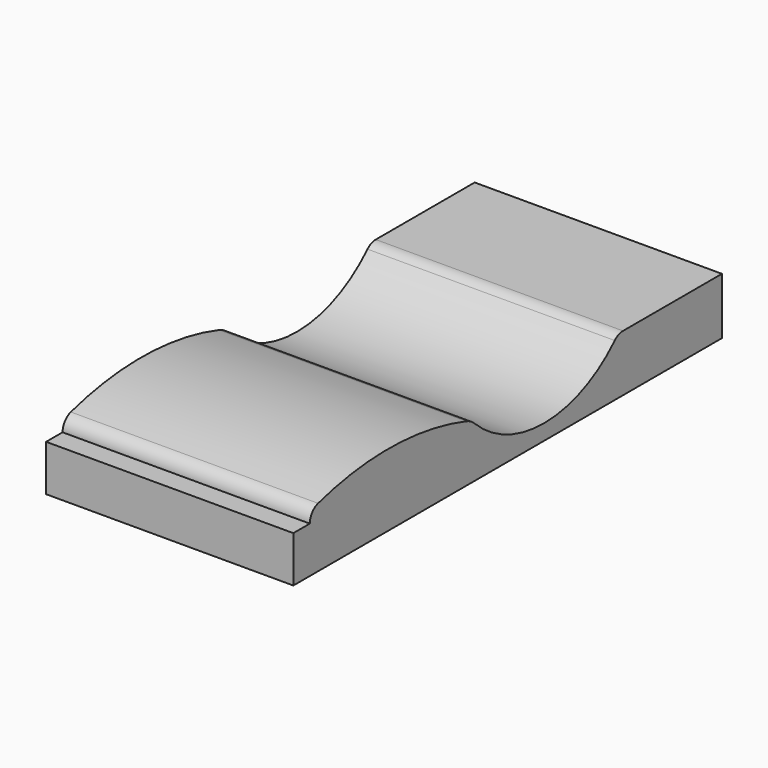
from build123d import *

# Parameters (mm, degrees)
F1_DEPTH = 304.8


with BuildPart() as f1:
    # F0 (on Right) → F1 (new body)
    with BuildSketch(Plane.YZ):
        with BuildLine():
            Line((0, 0), (25.4, 0))
            Line((25.4, 0), (635, 0))
            Line((635, 0), (660.4, 0))
            Line((660.4, 0), (660.4, 69.85))
            Line((660.4, 69.85), (635, 69.85))
            Line((635, 69.85), (508, 69.85))
            ThreePointArc((508, 69.85), (501.120084, 68.473081), (495.3, 64.554436))
            ThreePointArc((495.3, 64.554436), (387.828804, 19.05896), (279.4, 62.222496))
            ThreePointArc((279.4, 62.222496), (273.485985, 66.762175), (266.7, 69.85))
            ThreePointArc((266.7, 69.85), (152.689214, 88.843713), (38.1, 73.726423))
            ThreePointArc((38.1, 73.726423), (28.93043, 67.423949), (25.4, 56.872255))
            Line((25.4, 56.872255), (0, 56.872255))
            Line((0, 56.872255), (0, 0))
        make_face()
    extrude(amount=F1_DEPTH)


solid = f1.part
